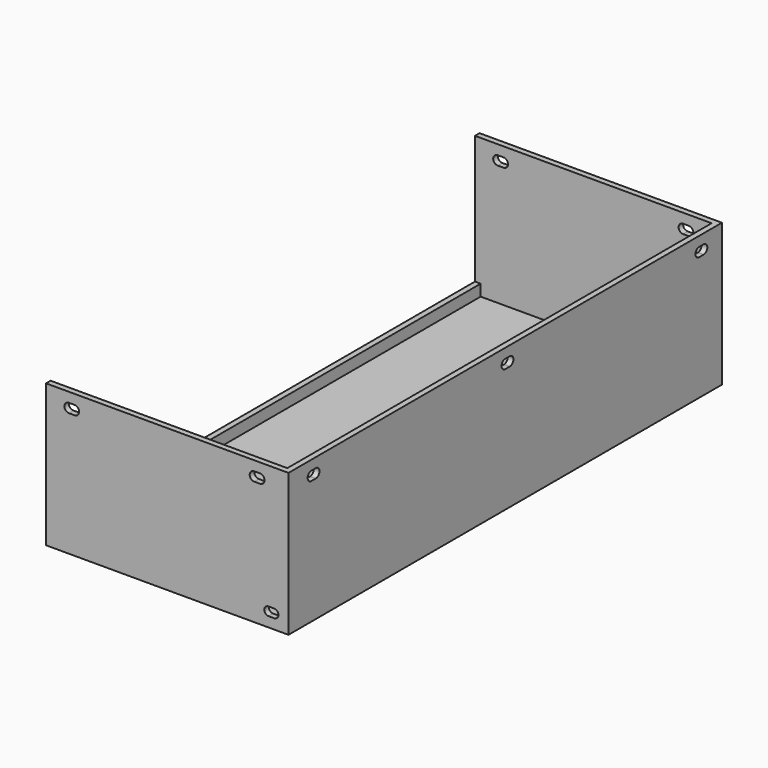
from build123d import *

# Parameters (mm, degrees)
SKETCH_W            = 85
SKETCH_H            = 190
PAD_DEPTH           = 1
SKETCH001_W         = 2
SKETCH001_H         = 50
PAD001_DEPTH        = 190
SKETCH002_W         = 2
SKETCH002_H         = 50
PAD002_DEPTH        = 85
SKETCH003_W         = 2
SKETCH003_H         = 50
PAD003_DEPTH        = 85
SKETCH004_W         = 2
SKETCH004_H         = 5
PAD004_DEPTH        = 190
POCKET_DEPTH        = 2
POCKET001_DEPTH     = 190
POCKET002_DEPTH     = 2
LINEARPATTERN_COUNT = 3
LINEARPATTERN_PITCH = 85


with BuildPart() as part:
    # Sketch → Pad (new body)
    with BuildSketch(Plane.XY):
        with Locations((-42.5, 95)):
            Rectangle(SKETCH_W, SKETCH_H)
    extrude(amount=PAD_DEPTH)

    # Sketch001 → Pad001 (join)
    with BuildSketch(Plane.XZ):
        with Locations((-1, 25)):
            Rectangle(SKETCH001_W, SKETCH001_H)
    extrude(amount=-PAD001_DEPTH)

    # Sketch002 → Pad002 (join)
    with BuildSketch(Plane.YZ):
        with Locations((1, 25)):
            Rectangle(SKETCH002_W, SKETCH002_H)
    extrude(amount=-PAD002_DEPTH)

    # Sketch003 → Pad003 (join)
    with BuildSketch(Plane.YZ):
        with Locations((189, 25)):
            Rectangle(SKETCH003_W, SKETCH003_H)
    extrude(amount=-PAD003_DEPTH)

    # Sketch004 → Pad004 (join)
    with BuildSketch(Plane.XZ):
        with Locations((-84, 2.5)):
            Rectangle(SKETCH004_W, SKETCH004_H)
    extrude(amount=-PAD004_DEPTH)

    # Sketch005 → Pocket (cut)
    with BuildSketch(Plane.XZ):
        with BuildLine():
            ThreePointArc((-7, 6.5), (-8.5, 5), (-7, 3.5))
            Line((-7, 3.5), (-5, 3.5))
            ThreePointArc((-5, 3.5), (-3.5, 5), (-5, 6.5))
            Line((-7, 6.5), (-5, 6.5))
        make_face()
    extrude(amount=-POCKET_DEPTH, mode=Mode.SUBTRACT)

    # Sketch006 → Pocket001 (cut)
    with BuildSketch(Plane.XZ):
        with BuildLine():
            ThreePointArc((-12, 46.6), (-13.6, 45), (-12, 43.4))
            Line((-12, 43.4), (-10, 43.4))
            ThreePointArc((-10, 43.4), (-8.4, 45), (-10, 46.6))
            Line((-12, 46.6), (-10, 46.6))
        make_face()
        with BuildLine():
            ThreePointArc((-77, 46.6), (-78.6, 45), (-77, 43.4))
            Line((-77, 43.4), (-75, 43.4))
            ThreePointArc((-75, 43.4), (-73.4, 45), (-75, 46.6))
            Line((-77, 46.6), (-75, 46.6))
        make_face()
    extrude(amount=-POCKET001_DEPTH, mode=Mode.SUBTRACT)

    # Sketch007 → Pocket002 (cut)
    with BuildSketch(Plane.YZ):
        with BuildLine():
            ThreePointArc((10, 46.6), (8.4, 45), (10, 43.4))
            Line((10, 43.4), (12, 43.4))
            ThreePointArc((12, 43.4), (13.6, 45), (12, 46.6))
            Line((10, 46.6), (12, 46.6))
        make_face()
    pocket002 = extrude(amount=-POCKET002_DEPTH, mode=Mode.SUBTRACT)

    # LinearPattern: Pocket002 ×3
    with Locations(*[(0, i * LINEARPATTERN_PITCH, 0) for i in range(1, LINEARPATTERN_COUNT)]):
        add(pocket002, mode=Mode.SUBTRACT)


solid = part.part
